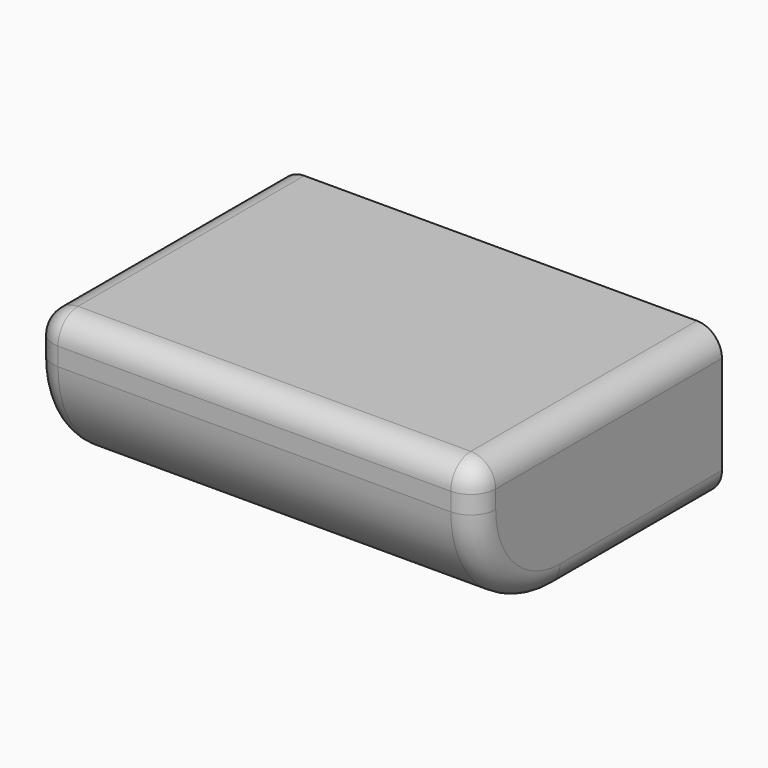
from build123d import *

# Parameters (mm, degrees)
F0_W     = 90.075135231
F0_H     = 62.6202728599
F1_DEPTH = 30.226
F2_R     = 21.4623585695
F3_R     = 5.08
F4_R     = 5.08


with BuildPart() as f1:
    # F0 (on Top) → F1 (new body)
    with BuildSketch(Plane.XY):
        with Locations((-2.6347637177, -21.8688407913)):
            Rectangle(F0_W, F0_H)
    extrude(amount=F1_DEPTH)

    # F2
    f2_edges = [f1.edges().sort_by_distance(p)[0] for p in [
        (-2.634764, -53.178977, 0),
    ]]
    fillet(f2_edges, radius=F2_R)

    # F3
    f3_edges = [f1.edges().sort_by_distance(p)[0] for p in [
        (42.402804, -11.137662, 0),
        (-47.672331, -11.137662, 0),
    ]]
    fillet(f3_edges, radius=F3_R)

    # F4
    f4_edges = [f1.edges().sort_by_distance(p)[0] for p in [
        (-2.634764, -53.178977, 21.462359),
        (-42.592331, -53.178977, 25.844179),
        (37.322804, -53.178977, 25.844179),
        (-2.634764, -53.178977, 30.226),
        (-42.592331, -46.892798, 6.286179),
        (37.322804, -46.892798, 6.286179),
        (-2.634764, -31.716619, 0),
    ]]
    fillet(f4_edges, radius=F4_R)


solid = f1.part
